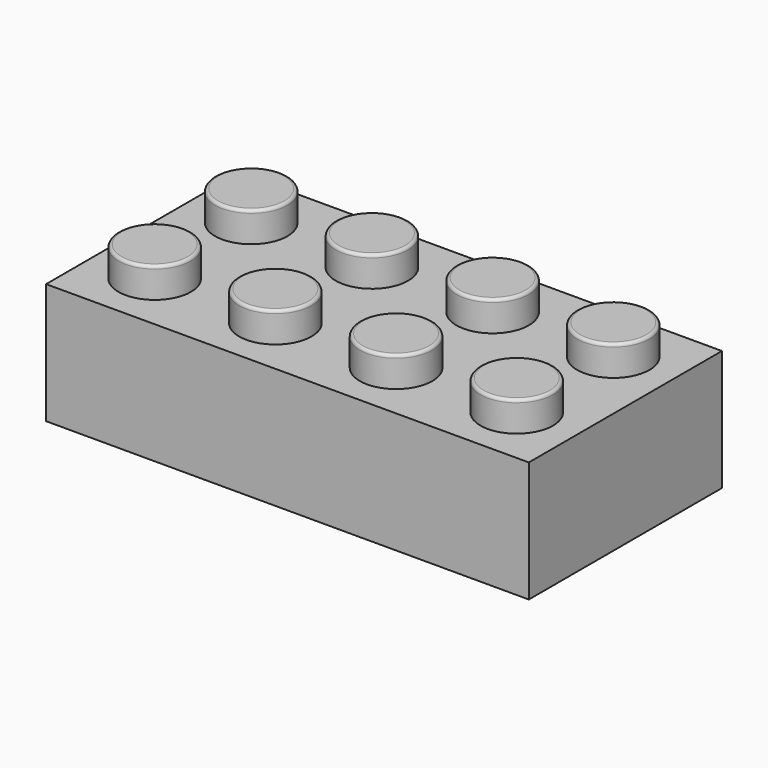
from build123d import *

# Parameters (mm, degrees)
F0_W     = 160
F0_H     = 80
F1_DEPTH = 40
F2_W     = 144
F2_H     = 64
F3_DEPTH = 25
F4_R     = 12
F5_DEPTH = 10
F6_R     = 1


with BuildPart() as f1:
    # F0 (on Top) → F1 (new body)
    with BuildSketch(Plane.XY):
        with Locations((4.989235, -13.304857)):
            Rectangle(F0_W, F0_H)
    extrude(amount=F1_DEPTH)

    # F2 (on face) → F3 (cut)
    with BuildSketch(Plane(origin=(0, 0, 0), x_dir=(1, 0, 0), z_dir=(0, 0, -1))):
        with Locations((4.989235, 13.304857)):
            Rectangle(F2_W, F2_H)
    extrude(amount=-F3_DEPTH, mode=Mode.SUBTRACT)

    # F4 (on face) → F5 (join)
    with BuildSketch(Plane.XY.offset(40)):
        with Locations((-55.010765, 6.695143)):
            Circle(F4_R)
        with Locations((-55.010765, -33.304857)):
            Circle(F4_R)
        with Locations((-15.010765, 6.695143)):
            Circle(F4_R)
        with Locations((-15.010765, -33.304857)):
            Circle(F4_R)
        with Locations((24.989235, 6.695143)):
            Circle(F4_R)
        with Locations((24.989235, -33.304857)):
            Circle(F4_R)
        with Locations((64.989235, 6.695143)):
            Circle(F4_R)
        with Locations((64.989235, -33.304857)):
            Circle(F4_R)
    extrude(amount=F5_DEPTH)

    # F6
    f6_edges = [f1.edges().sort_by_distance(p)[0] for p in [
        (-67.010765, 6.695143, 50),
        (-27.010765, 6.695143, 50),
        (12.989235, 6.695143, 50),
        (52.989235, 6.695143, 50),
        (-67.010765, -33.304857, 50),
        (-27.010765, -33.304857, 50),
        (12.989235, -33.304857, 50),
        (52.989235, -33.304857, 50),
    ]]
    fillet(f6_edges, radius=F6_R)


solid = f1.part
